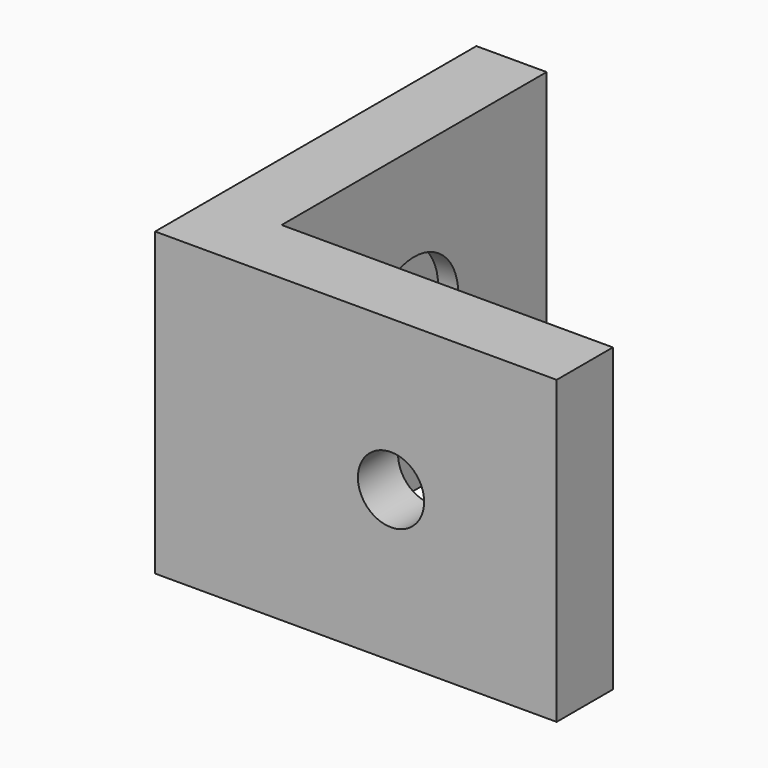
from build123d import *

# Parameters (mm, degrees)
F0_W     = 3.5
F0_H     = 16.5
F0_H_2   = 3.5
F0_W_2   = 16.5
F1_DEPTH = 15
F2_R     = 1.65
F4_DEPTH = 3.5
F2_R_2   = 2.75
F5_DEPTH = 1
F3_R     = 1.65
F6_DEPTH = 3.5
F3_R_2   = 2.75
F7_DEPTH = 1


with BuildPart() as f1:
    # F0 (on Top) → F1 (new body)
    with BuildSketch(Plane.XY):
        with Locations((-10.361038, 3.047789)):
            Rectangle(F0_W, F0_H)
        with Locations((-10.361038, -6.952211)):
            Rectangle(F0_W, F0_H_2)
        with Locations((-0.361038, -6.952211)):
            Rectangle(F0_W_2, F0_H_2)
    extrude(amount=F1_DEPTH)

    # F2 (on face) → F4 (cut, through all)
    with BuildSketch(Plane.YZ.offset(-8.611038)):
        with Locations((3.047789, 7.5)):
            Circle(F2_R)
    extrude(amount=-F4_DEPTH, mode=Mode.SUBTRACT)

    # F2 (on face) → F5 (cut)
    with BuildSketch(Plane.YZ.offset(-8.611038)):
        with Locations((3.047789, 7.5)):
            Circle(F2_R_2)
        with Locations((3.047789, 7.5)):
            Circle(F2_R, mode=Mode.SUBTRACT)
    extrude(amount=-F5_DEPTH, mode=Mode.SUBTRACT)

    # F3 (on face) → F6 (cut, through all)
    with BuildSketch(Plane(origin=(0, -5.202211, 0), x_dir=(-1, 0, 0), z_dir=(0, 1, 0))):
        with Locations((0.361038, 7.5)):
            Circle(F3_R)
    extrude(amount=-F6_DEPTH, mode=Mode.SUBTRACT)

    # F3 (on face) → F7 (cut)
    with BuildSketch(Plane(origin=(0, -5.202211, 0), x_dir=(-1, 0, 0), z_dir=(0, 1, 0))):
        with Locations((0.361038, 7.5)):
            Circle(F3_R_2)
        with Locations((0.361038, 7.5)):
            Circle(F3_R, mode=Mode.SUBTRACT)
    extrude(amount=-F7_DEPTH, mode=Mode.SUBTRACT)


solid = f1.part
